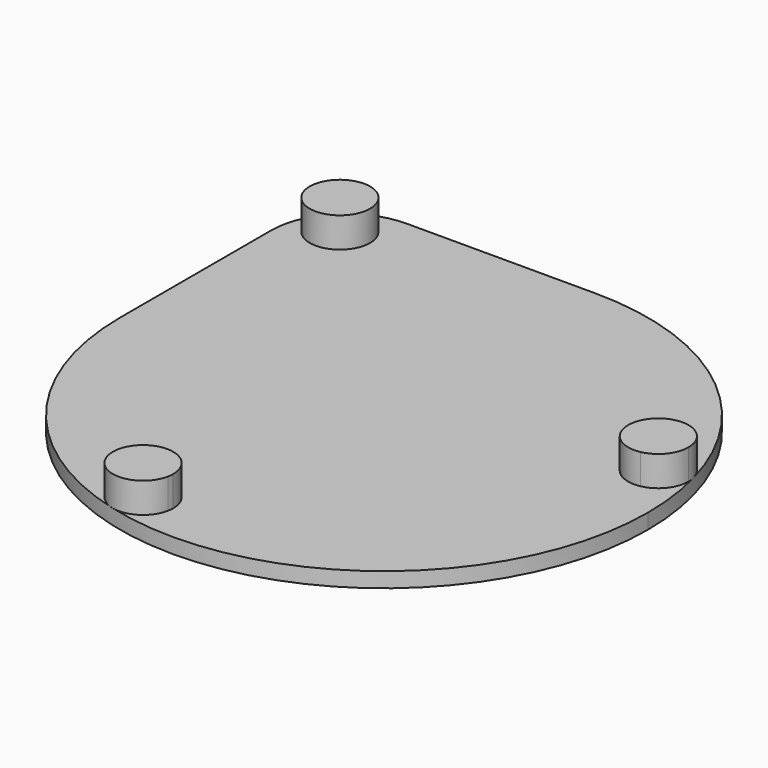
from build123d import *

# Parameters (mm, degrees)
F1_DEPTH = 2
F2_R     = 4
F3_DEPTH = 4


with BuildPart() as f1:
    # F0 (on Top) → F1 (new body)
    with BuildSketch(Plane.XY):
        with BuildLine():
            ThreePointArc((-35, 0), (0, -35), (35, 0))
            ThreePointArc((35, 0), (24.7487373415, 24.7487373415), (0, 35))
            Line((0, 35), (0, 0))
            Line((0, 0), (-35, 0))
        make_face()
        with BuildLine():
            Line((0, 0), (0, 35))
            ThreePointArc((0, 35), (-24.7487373415, 24.7487373415), (-35, 0))
            Line((-35, 0), (0, 0))
        make_face()
        with BuildLine():
            ThreePointArc((-35, 0), (-24.7487373415, 24.7487373415), (0, 35))
            Line((0, 35), (-25, 35))
            ThreePointArc((-25, 35), (-32.0710678119, 32.0710678119), (-35, 25))
            Line((-35, 25), (-35, 0))
        make_face()
    extrude(amount=F1_DEPTH)

    # F2 (on face) → F3 (join)
    with BuildSketch(Plane.XY.offset(2)):
        with BuildLine():
            ThreePointArc((-3.9906925033, -29.9524428606), (-7.343019412, -26.0052261745), (-11.7809522867, -28.6741898442))
            ThreePointArc((-11.7809522867, -28.6741898442), (-7.9906925033, -29.9524428606), (-4.0673930944, -30.7320079626))
            ThreePointArc((-4.0673930944, -30.7320079626), (-4.0099138335, -30.3441074904), (-3.9906925033, -29.9524428606))
        make_face()
        with BuildLine():
            ThreePointArc((28.6483961521, 11.8435382344), (26.0723520067, 7.0165846991), (30.7230529813, 4.134490961))
            ThreePointArc((30.7230529813, 4.134490961), (29.9349226743, 8.0560787286), (28.6483961521, 11.8435382344))
        make_face()
        with BuildLine():
            ThreePointArc((28.6483961521, 11.8435382344), (29.9349226743, 8.0560787286), (30.7230529813, 4.134490961))
            ThreePointArc((30.7230529813, 4.134490961), (33.0294760531, 5.5215690352), (33.9349226743, 8.0560787286))
            ThreePointArc((33.9349226743, 8.0560787286), (32.2645035284, 11.3077018686), (28.6483961521, 11.8435382344))
        make_face()
        with BuildLine():
            ThreePointArc((-4.0673930944, -30.7320079626), (-7.9906925033, -29.9524428606), (-11.7809522867, -28.6741898442))
            ThreePointArc((-11.7809522867, -28.6741898442), (-9.0217496005, -33.8172741975), (-4.0673930944, -30.7320079626))
        make_face()
        with Locations((-29.2426406871, 29.2426406871)):
            Circle(F2_R)
    extrude(amount=F3_DEPTH)


solid = f1.part
